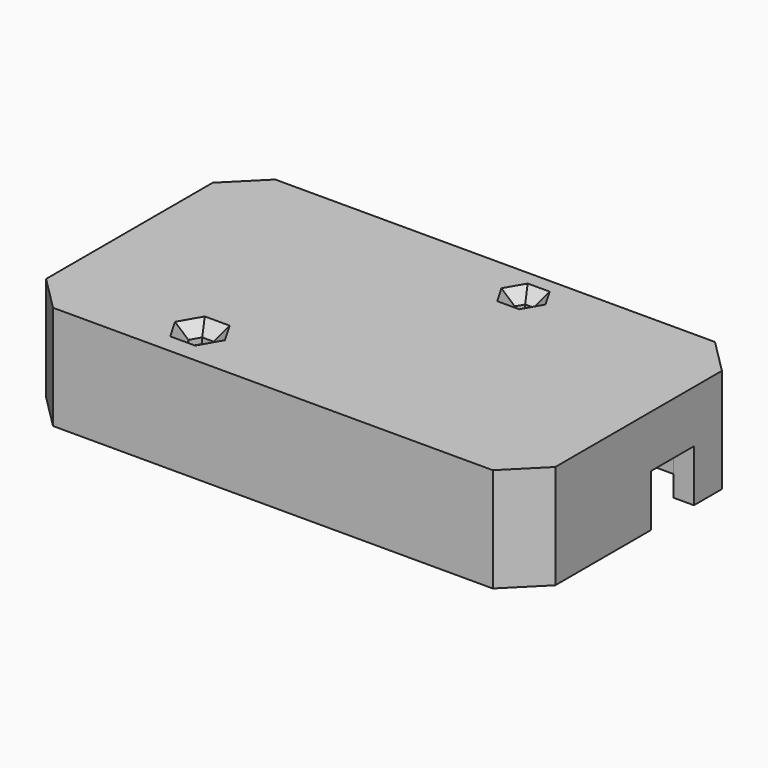
from build123d import *

# Parameters (mm, degrees)
SKETCH_W                      = 88
SKETCH_H                      = 48
PAD_DEPTH                     = 3
SKETCH001_W                   = 88
SKETCH001_H                   = 48
SKETCH001_W_2                 = 81
SKETCH001_H_2                 = 41
PAD001_DEPTH                  = 15
SKETCH002_R                   = 2
PAD002_DEPTH                  = 11.4
SKETCH002_MIRRORED_2_R        = 2
PAD002_MIRRORED_2_DEPTH       = 11.4
SKETCH003_W                   = 9.293619
SKETCH003_H                   = 8.984104
POCKET_DEPTH                  = 5
SKETCH004_W                   = 8.1
SKETCH004_H                   = 9.5
POCKET001_DEPTH               = 5
CHAMFER_ANGLE                 = 18
CHAMFER_SIZE                  = 7
CHAMFER001_ANGLE              = 30
CHAMFER001_SIZE               = 4
SKETCH005_W                   = 11
SKETCH005_H                   = 7
POCKET002_DEPTH               = 5
CHAMFER002_ANGLE              = 60
CHAMFER002_SIZE               = 1.5
PAD003_DEPTH                  = 1.6
PAD003_MIRRORED003_2_DEPTH    = 1.6
POCKET003_DEPTH               = 5
CHAMFER003_SIZE               = 2
POCKET004_DEPTH               = 5
CHAMFER004_SIZE               = 2
SKETCH009_W                   = 12
SKETCH009_H                   = 6
POCKET005_DEPTH               = 5
CHAMFER005_ANGLE              = 60
CHAMFER005_SIZE               = 2
POCKET006_DEPTH               = 221.6870329036
POCKET006_MIRRORED005_2_DEPTH = 221.6870329036
PAD004_DEPTH                  = 2
PAD004_MIRRORED007_2_DEPTH    = 2
BODY_PLACEMENT_ANGLE          = 180


with BuildPart() as part:
    # Sketch → Pad (new body)
    with BuildSketch(Plane.XY):
        Rectangle(SKETCH_W, SKETCH_H)
    extrude(amount=PAD_DEPTH)

    # Sketch001 (on Face6 of Pad) → Pad001 (join)
    with BuildSketch(Plane.XY.offset(3)):
        Rectangle(SKETCH001_W, SKETCH001_H)
        Rectangle(SKETCH001_W_2, SKETCH001_H_2, mode=Mode.SUBTRACT)
    extrude(amount=PAD001_DEPTH)

    # Sketch002 (on Face15 of Pad001) → Pad002 (join)
    with BuildSketch(Plane.XY.offset(3)):
        Polygon((-31.964466094, 15.5), (-31.964466094, 20.5), (-40.5, 20.5), (-40.5, 11.9644660941), (-35.5, 11.9644660941), align=None)
        with Locations((-35.75, 15.75)):
            Circle(SKETCH002_R, mode=Mode.SUBTRACT)
    pad002 = extrude(amount=PAD002_DEPTH)

    # Sketch002 Mirrored 2 → Pad002 Mirrored 2 (add)
    with BuildSketch(Plane(origin=(0, 0, 3), x_dir=(-1, 0, 0), z_dir=(0, 0, -1))):
        Polygon((-31.964466094, 15.5), (-31.964466094, 20.5), (-40.5, 20.5), (-40.5, 11.9644660941), (-35.5, 11.9644660941), align=None)
        with Locations((-35.75, 15.75)):
            Circle(SKETCH002_MIRRORED_2_R, mode=Mode.SUBTRACT)
    pad002_mirrored_2 = extrude(amount=-PAD002_MIRRORED_2_DEPTH)

    # Mirrored001: Pad002, Pad002 Mirrored 2 across Sketch002 H_Axis
    add(pad002.mirror(Plane(origin=(0, 0, 3), x_dir=(0, 0, 1), z_dir=(0, 1, 0))))
    add(pad002_mirrored_2.mirror(Plane(origin=(0, 0, 3), x_dir=(0, 0, 1), z_dir=(0, 1, 0))))

    # Sketch003 (on Face7 of MultiTransform) → Pocket (cut)
    with BuildSketch(Plane(origin=(-44, 0, 0), x_dir=(0, -1, 0), z_dir=(-1, 0, 0))):
        with Locations((7.3011175, 13.507948)):
            Rectangle(SKETCH003_W, SKETCH003_H)
    pocket = extrude(amount=-POCKET_DEPTH, mode=Mode.SUBTRACT)

    # Mirrored002: Pocket across YZ
    add(pocket.mirror(Plane.YZ), mode=Mode.SUBTRACT)

    # Sketch004 (on Face5 of Mirrored002) → Pocket001 (cut)
    with BuildSketch(Plane.XZ.offset(24)):
        with Locations((-3.188932, 13.25)):
            Rectangle(SKETCH004_W, SKETCH004_H)
    extrude(amount=-POCKET001_DEPTH, mode=Mode.SUBTRACT)

    # Chamfer
    chamfer_edges = [part.edges().sort_by_distance(p)[0] for p in [
        (0.861068, -24, 13.25),
        (-7.238932, -24, 13.25),
    ]]
    chamfer_side = part.faces().sort_by_distance((0, -24, 3.892693))[0]
    chamfer(chamfer_edges, length=CHAMFER_SIZE, angle=CHAMFER_ANGLE, reference=chamfer_side)

    # Chamfer001
    chamfer001_edges = [part.edges().sort_by_distance(p)[0] for p in [
        (-3.188932, -24, 8.5),
        (-10.738932, -24, 8.5),
        (4.361068, -24, 8.5),
    ]]
    chamfer001_side = part.faces().sort_by_distance((-29.119466, -24, 17.107307))[0]
    chamfer(chamfer001_edges, length=CHAMFER001_SIZE, angle=CHAMFER001_ANGLE, reference=chamfer001_side)

    # Sketch005 (on Face1 of Chamfer001) → Pocket002 (cut)
    with BuildSketch(Plane.XZ.offset(24)):
        with Locations((-23.6462903219, 14.5)):
            Rectangle(SKETCH005_W, SKETCH005_H)
    extrude(amount=-POCKET002_DEPTH, mode=Mode.SUBTRACT)

    # Chamfer002
    chamfer002_edges = [part.edges().sort_by_distance(p)[0] for p in [
        (-23.64629, -24, 11),
        (-18.14629, -24, 14.5),
        (-29.14629, -24, 14.5),
    ]]
    chamfer002_side = part.faces().sort_by_distance((-10.738932, -24, 3.607307))[0]
    chamfer(chamfer002_edges, length=CHAMFER002_SIZE, angle=CHAMFER002_ANGLE, reference=chamfer002_side)

    # Sketch006 (on Face38 of Chamfer002) → Pad003 (join)
    with BuildSketch(Plane.XY.offset(14.4)):
        Polygon((-40.5, 20.5), (-40.5, 17.0000000001), (-37, 20.5), align=None)
    pad003 = extrude(amount=PAD003_DEPTH)

    # Sketch006 Mirrored003 2 → Pad003 Mirrored003 2 (add)
    with BuildSketch(Plane(origin=(0, 0, 14.4), x_dir=(-1, 0, 0), z_dir=(0, 0, -1))):
        Polygon((-40.5, 20.5), (-40.5, 17.0000000001), (-37, 20.5), align=None)
    pad003_mirrored003_2 = extrude(amount=-PAD003_MIRRORED003_2_DEPTH)

    # Mirrored004: Pad003, Pad003 Mirrored003 2 across Sketch006 H_Axis
    add(pad003.mirror(Plane(origin=(0, 0, 14.4), x_dir=(0, 0, 1), z_dir=(0, 1, 0))))
    add(pad003_mirrored003_2.mirror(Plane(origin=(0, 0, 14.4), x_dir=(0, 0, 1), z_dir=(0, 1, 0))))

    # Sketch007 (on Face27 of MultiTransform001) → Pocket003 (cut)
    with BuildSketch(Plane(origin=(0, 0, 0), x_dir=(1, 0, 0), z_dir=(0, 0, -1))):
        Polygon((-16.267433, -16.921766), (-17.267433, -15.1897151924), (-19.267433, -15.1897151924), (-20.267433, -16.921766), (-19.267433, -18.6538168076), (-17.267433, -18.6538168076), align=None)
    extrude(amount=-POCKET003_DEPTH, mode=Mode.SUBTRACT)

    # Chamfer003
    chamfer003_edges = [part.edges().sort_by_distance(p)[0] for p in [
        (-18.267433, 15.189715, 0),
        (-16.767433, 16.055741, 0),
        (-16.767433, 17.787791, 0),
        (-18.267433, 18.653817, 0),
        (-19.767433, 17.787791, 0),
        (-19.767433, 16.055741, 0),
    ]]
    chamfer(chamfer003_edges, length=CHAMFER003_SIZE)

    # Sketch008 (on Face1 of Chamfer003) → Pocket004 (cut)
    with BuildSketch(Plane(origin=(0, 0, 0), x_dir=(1, 0, 0), z_dir=(0, 0, -1))):
        Polygon((11, 18.25), (10.25, 19.5490381057), (8.75, 19.5490381057), (8, 18.25), (8.75, 16.9509618943), (10.25, 16.9509618943), align=None)
    extrude(amount=-POCKET004_DEPTH, mode=Mode.SUBTRACT)

    # Chamfer004
    chamfer004_edges = [part.edges().sort_by_distance(p)[0] for p in [
        (9.5, -19.549038, 0),
        (8.375, -18.899519, 0),
        (8.375, -17.600481, 0),
        (9.5, -16.950962, 0),
        (10.625, -17.600481, 0),
        (10.625, -18.899519, 0),
    ]]
    chamfer(chamfer004_edges, length=CHAMFER004_SIZE)

    # Sketch009 (on Face25 of Chamfer004) → Pocket005 (cut)
    with BuildSketch(Plane(origin=(-44, 0, 0), x_dir=(0, -1, 0), z_dir=(-1, 0, 0))):
        with Locations((-3.345692, 15)):
            Rectangle(SKETCH009_W, SKETCH009_H)
    extrude(amount=-POCKET005_DEPTH, mode=Mode.SUBTRACT)

    # Chamfer005
    chamfer005_edges = [part.edges().sort_by_distance(p)[0] for p in [
        (-44, 3.345692, 12),
    ]]
    chamfer005_side = part.faces().sort_by_distance((-44, 0.653166, 9.481146))[0]
    chamfer(chamfer005_edges, length=CHAMFER005_SIZE, angle=CHAMFER005_ANGLE, reference=chamfer005_side)

    # Sketch010 (on Face32 of Chamfer005) → Pocket006 (cut, through all)
    with BuildSketch(Plane(origin=(0, 0, 0), x_dir=(1, 0, 0), z_dir=(0, 0, -1))):
        Polygon((38, 24), (44, 24), (44, 18), align=None)
    pocket006 = extrude(amount=-POCKET006_DEPTH, mode=Mode.SUBTRACT)

    # Sketch010 Mirrored005 2 → Pocket006 Mirrored005 2 (cut, through all)
    with BuildSketch(Plane(origin=(0, 0, 0), x_dir=(-1, 0, 0), z_dir=(0, 0, 1))):
        Polygon((38, 24), (44, 24), (44, 18), align=None)
    pocket006_mirrored005_2 = extrude(amount=POCKET006_MIRRORED005_2_DEPTH, mode=Mode.SUBTRACT)

    # Mirrored006: Pocket006, Pocket006 Mirrored005 2 across Sketch010 H_Axis
    add(pocket006.mirror(Plane(origin=(0, 0, 0), x_dir=(0, 0, -1), z_dir=(0, -1, 0))), mode=Mode.SUBTRACT)
    add(pocket006_mirrored005_2.mirror(Plane(origin=(0, 0, 0), x_dir=(0, 0, -1), z_dir=(0, -1, 0))), mode=Mode.SUBTRACT)

    # Sketch011 (on Face32 of MultiTransform002) → Pad004 (join)
    with BuildSketch(Plane.XY.offset(16)):
        Polygon((-40.5, -20.5), (-40.5, -17.0000000001), (-37.0000000001, -20.5), align=None)
    pad004 = extrude(amount=PAD004_DEPTH)

    # Sketch011 Mirrored007 2 → Pad004 Mirrored007 2 (add)
    with BuildSketch(Plane(origin=(0, 0, 16), x_dir=(-1, 0, 0), z_dir=(0, 0, -1))):
        Polygon((-40.5, -20.5), (-40.5, -17.0000000001), (-37.0000000001, -20.5), align=None)
    pad004_mirrored007_2 = extrude(amount=-PAD004_MIRRORED007_2_DEPTH)

    # Mirrored008: Pad004, Pad004 Mirrored007 2 across Sketch011 H_Axis
    add(pad004.mirror(Plane(origin=(0, 0, 16), x_dir=(0, 0, 1), z_dir=(0, 1, 0))))
    add(pad004_mirrored007_2.mirror(Plane(origin=(0, 0, 16), x_dir=(0, 0, 1), z_dir=(0, 1, 0))))


with BuildPart() as part_1:
    # Body placement: moved
    add(part.part.moved(Location((0, 0, 19.4))).rotate(Axis((0, 0, 19.4), (1, 0, 0)), BODY_PLACEMENT_ANGLE))


solid = part_1.part
